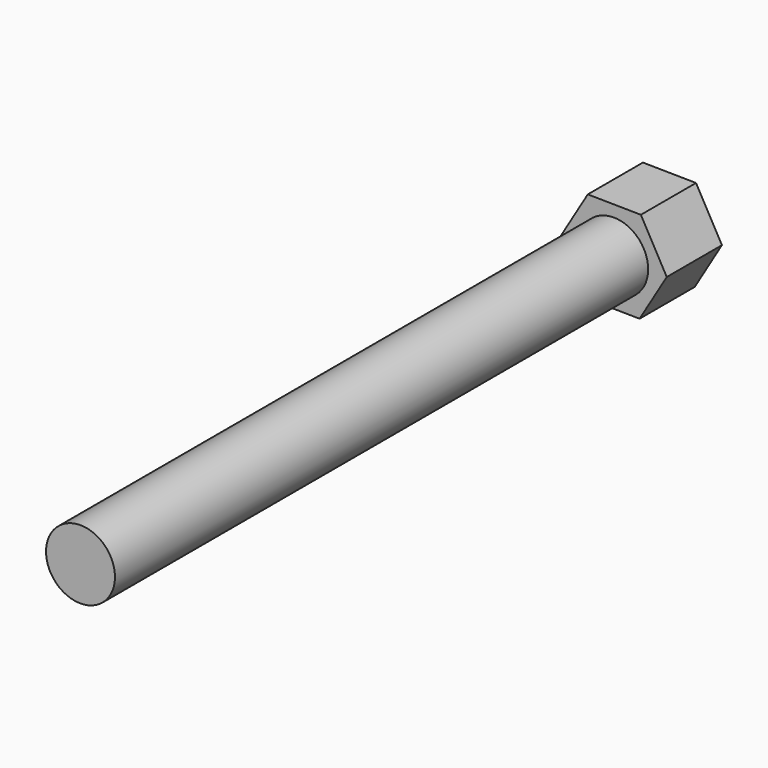
from build123d import *

# Parameters (mm, degrees)
F0_R     = 4.7625
F2_DEPTH = 101.6
F4_DEPTH = 9.525


with BuildPart() as f2:
    # F0 (on Front) → F2 (new body)
    with BuildSketch(Plane.XZ):
        Circle(F0_R)
    extrude(amount=F2_DEPTH)

    # F3 (on Front) → F4 (join)
    with BuildSketch(Plane.XZ):
        Polygon((7.331661, -0.100432), (3.752807, 6.299188), (-3.578853, 6.39962), (-7.331661, 0.100432), (-3.752807, -6.299188), (3.578853, -6.39962), align=None)
    extrude(amount=F4_DEPTH)


solid = f2.part
